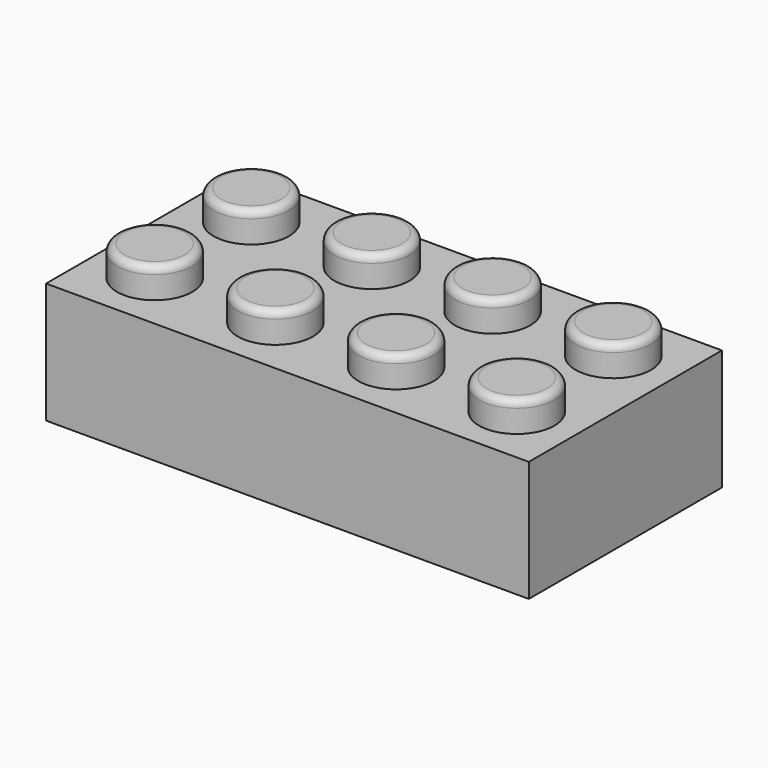
from build123d import *

# Parameters (mm, degrees)
F0_W     = 32
F0_H     = 16
F2_DEPTH = 8
F3_R     = 2.5
F4_DEPTH = 2
F5_R     = 0.5
F7_R     = 3.5798339271
F8_DEPTH = 8
F9_T     = -1.5


with BuildPart() as f2:
    # F0 (on Top) → F2 (new body)
    with BuildSketch(Plane.XY):
        Rectangle(F0_W, F0_H)
    extrude(amount=F2_DEPTH)

    # F3 (on offset) → F4 (join)
    with BuildSketch(Plane.XY.offset(8)):
        with Locations((-12, 4)):
            Circle(F3_R)
        with Locations((-4, 4)):
            Circle(F3_R)
        with Locations((4, 4)):
            Circle(F3_R)
        with Locations((12, 4)):
            Circle(F3_R)
        with Locations((4, -4)):
            Circle(F3_R)
        with Locations((-4, -4)):
            Circle(F3_R)
        with Locations((-12, -4)):
            Circle(F3_R)
        with Locations((12, -4)):
            Circle(F3_R)
        with Locations((-12, 4)):
            Circle(F3_R)
    extrude(amount=F4_DEPTH)

    # F5
    f5_edges = [f2.edges().sort_by_distance(p)[0] for p in [
        (-14.5, 4, 10),
        (-6.5, 4, 10),
        (1.5, 4, 10),
        (9.5, 4, 10),
        (9.5, -4, 10),
        (1.5, -4, 10),
        (-6.5, -4, 10),
        (-14.5, -4, 10),
    ]]
    fillet(f5_edges, radius=F5_R)

    # F7 (on offset) → F8 (join)
    with BuildSketch(Plane.XY):
        with Locations((-8, 0)):
            Circle(F7_R)
        Circle(F7_R)
        with Locations((8, 0)):
            Circle(F7_R)
    extrude(amount=F8_DEPTH)

    # F9
    f9_openings = [f2.faces().sort_by_distance(p)[0] for p in [
        (0, 0, 0),
    ]]
    offset(amount=F9_T, openings=f9_openings, kind=Kind.INTERSECTION)


solid = f2.part
